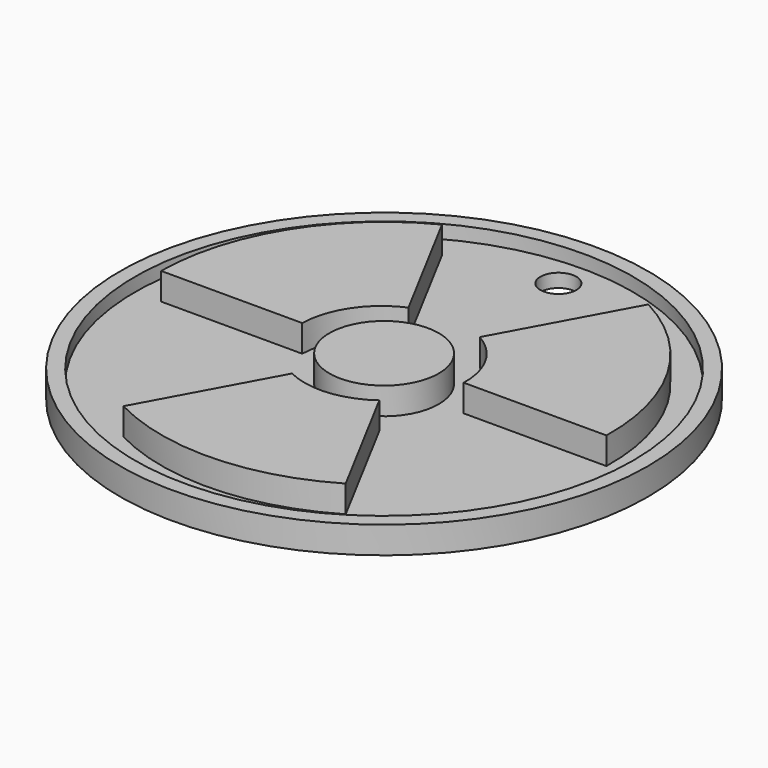
from build123d import *

# Parameters (mm, degrees)
F0_R     = 29.322045
F1_DEPTH = 3
F2_R     = 27.665962
F3_DEPTH = 1.5
F4_R     = 6.073968
F5_DEPTH = 3
F7_D     = 4
F7_DEPTH = 2


with BuildPart() as f1:
    # F0 (on Top) → F1 (new body)
    with BuildSketch(Plane.XY):
        Circle(F0_R)
    extrude(amount=F1_DEPTH)

    # F2 (on face) → F3 (cut)
    with BuildSketch(Plane.XY.offset(3)):
        Circle(F2_R)
    extrude(amount=-F3_DEPTH, mode=Mode.SUBTRACT)

    # F4 (on face) → F5 (join)
    with BuildSketch(Plane.XY.offset(1.5)):
        Circle(F4_R)
        with BuildLine():
            ThreePointArc((-11.182132, 22.020222), (-21.055439, 12.909818), (-24.772728, 0))
            Line((-24.772728, 0), (-9.090909, 0))
            ThreePointArc((-9.090909, 0), (-7.576474, 4.79996), (-3.711611, 8.024237))
            Line((-3.711611, 8.024237), (-11.182132, 22.020222))
        make_face()
        with BuildLine():
            ThreePointArc((4.580156, 7.562137), (7.763511, 4.374334), (8.841026, 0))
            Line((8.841026, 0), (24.696766, 0))
            ThreePointArc((24.696766, 0), (21.471368, 12.52034), (12.163349, 21.493795))
            Line((12.163349, 21.493795), (4.580156, 7.562137))
        make_face()
        with BuildLine():
            ThreePointArc((-11.447483, -21.88345), (0.709798, -24.657945), (12.687344, -21.188694))
            Line((12.687344, -21.188694), (5.195707, -7.153148))
            ThreePointArc((5.195707, -7.153148), (0.777582, -8.821586), (-3.86429, -7.951793))
            Line((-3.86429, -7.951793), (-11.447483, -21.88345))
        make_face()
    extrude(amount=F5_DEPTH)

    # F7
    with Locations(Plane.XY.offset(1.5)):
        with Locations((0, 24.204547)):
            Hole(F7_D / 2, depth=F7_DEPTH)


solid = f1.part
